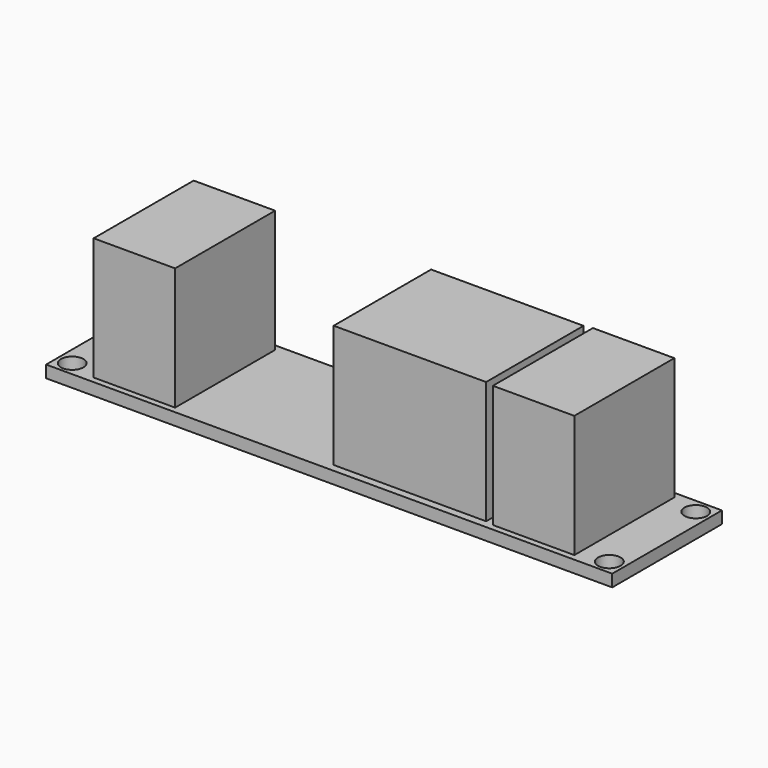
from build123d import *

# Parameters (mm, degrees)
SKETCH_W      = 70.2
SKETCH_H      = 17
SKETCH_R      = 1.4
PAD_DEPTH     = 1.5
SKETCH001_W   = 10.1
SKETCH001_H   = 15.5
SKETCH001_W_2 = 18.9
SKETCH001_H_2 = 15.1
PAD001_DEPTH  = 15.2


with BuildPart() as part:
    # Sketch → Pad (new body)
    with BuildSketch(Plane.XY):
        Rectangle(SKETCH_W, SKETCH_H)
        with Locations((-33.3, 6.7)):
            Circle(SKETCH_R, mode=Mode.SUBTRACT)
        with Locations((33.3, 6.7)):
            Circle(SKETCH_R, mode=Mode.SUBTRACT)
        with Locations((-33.3, -6.7)):
            Circle(SKETCH_R, mode=Mode.SUBTRACT)
        with Locations((33.3, -6.7)):
            Circle(SKETCH_R, mode=Mode.SUBTRACT)
    extrude(amount=PAD_DEPTH)

    # Sketch001 (on Face10 of Pad) → Pad001 (join)
    with BuildSketch(Plane.XY.offset(1.5)):
        with Locations((-24.75, 0)):
            Rectangle(SKETCH001_W, SKETCH001_H)
        with Locations((24.75, 0)):
            Rectangle(SKETCH001_W, SKETCH001_H)
        with Locations((9.25, 0)):
            Rectangle(SKETCH001_W_2, SKETCH001_H_2)
    extrude(amount=PAD001_DEPTH)


solid = part.part
